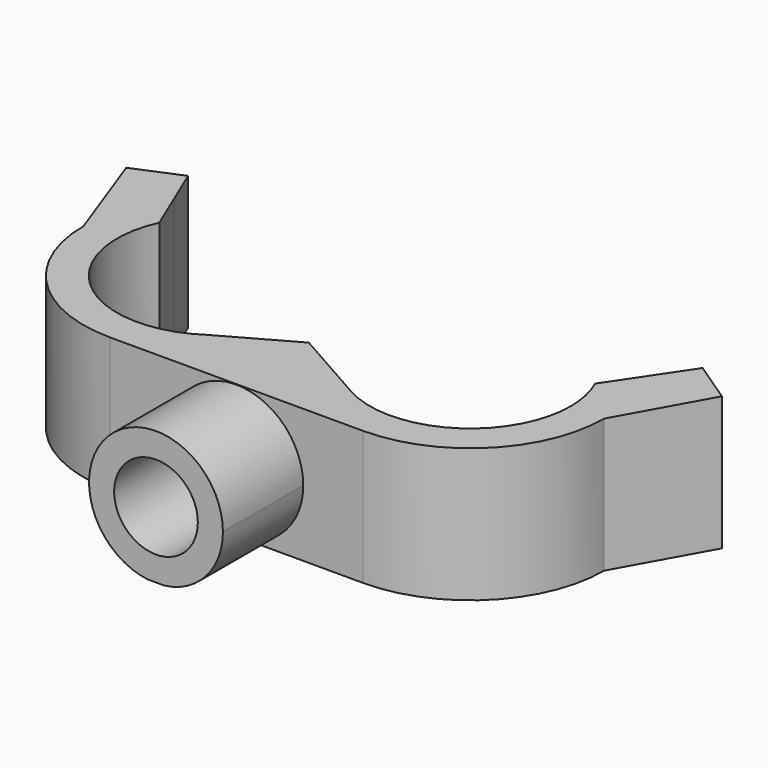
from build123d import *

# Parameters (mm, degrees)
F1_DEPTH = 8
F2_R     = 1.5
F3_DEPTH = 25
F2_R_2   = 2.5
F4_DEPTH = 6
F6_START = -2
F5_R     = 3.5
F6_DEPTH = 23


with BuildPart() as f1:
    # F0 (on Top) → F1 (new body)
    with BuildSketch(Plane.XY):
        with BuildLine():
            ThreePointArc((-6.4197371813, 4.7735704167), (-7.5946658073, 2.5141700966), (-8, 0))
            ThreePointArc((-8, 0), (-5.6568542495, -5.6568542495), (0, -8))
            ThreePointArc((0, -8), (4.6410709926, -6.5161691231), (7.5605008751, -2.6151150104))
            Line((7.5605008751, -2.6151150104), (3.3365949124, -4.9866957387))
            ThreePointArc((3.3365949124, -4.9866957387), (-3.8856695712, -4.5718237044), (-5.4593337085, 2.4891113795))
            Line((-5.4593337085, 2.4891113795), (-6.4197371813, 4.7735704167))
        make_face()
        with BuildLine():
            ThreePointArc((7.5605008751, -2.6151150104), (4.6410709926, -6.5161691231), (0, -8))
            Line((0, -8), (15.1210017502, -8))
            ThreePointArc((15.1210017502, -8), (10.4799307576, -6.5161691231), (7.5605008751, -2.6151150104))
        make_face()
        with BuildLine():
            Line((12.1655220018, -5.2216031501), (7.5605008751, -2.6151150104))
            ThreePointArc((7.5605008751, -2.6151150104), (10.4799307576, -6.5161691231), (15.1210017502, -8))
            ThreePointArc((15.1210017502, -8), (20.7778559997, -5.6568542495), (23.1210017502, 0))
            ThreePointArc((23.1210017502, 0), (22.79183999, 2.2711760607), (21.8314415756, 4.3554560439))
            Line((21.8314415756, 4.3554560439), (20.5803354587, 2.4891113795))
            ThreePointArc((20.5803354587, 2.4891113795), (20.9842773813, 1.2735771962), (21.1210017502, 0))
            ThreePointArc((21.1210017502, 0), (18.1431798977, -5.1832846001), (12.1655220018, -5.2216031501))
        make_face()
        with BuildLine():
            ThreePointArc((21.8314415756, 4.3554560439), (22.79183999, 2.2711760607), (23.1210017502, 0))
            Line((23.1210017502, 0), (26.0024620047, 5.1898341576))
            Line((26.0024620047, 5.1898341576), (23.510556668, 6.8602855317))
            Line((23.510556668, 6.8602855317), (21.8314415756, 4.3554560439))
        make_face()
        with BuildLine():
            Line((-10.1314789225, 5.8615841737), (-8, 0))
            ThreePointArc((-8, 0), (-7.5946658073, 2.5141700966), (-6.4197371813, 4.7735704167))
            Line((-6.4197371813, 4.7735704167), (-7.3659350164, 7.0242392831))
            Line((-7.3659350164, 7.0242392831), (-10.1314789225, 5.8615841737))
        make_face()
    extrude(amount=F1_DEPTH)

    # F2 (on face) → F3 (cut)
    with BuildSketch(Plane.XZ.offset(8)):
        with Locations((7.5357314199, 3.9691259153)):
            Circle(F2_R)
    extrude(amount=-F3_DEPTH, mode=Mode.SUBTRACT)

    # F2 (on face) → F4 (join)
    with BuildSketch(Plane.XZ.offset(8)):
        with BuildLine():
            ThreePointArc((8.031755077, 0), (10.5344056793, 1.3218721145), (11.5357314199, 3.9691259153))
            ThreePointArc((11.5357314199, 3.9691259153), (4.8884776191, 6.9678001747), (7.0397077629, 0))
            Line((7.0397077629, 0), (8.031755077, 0))
        make_face()
        with Locations((7.5357314199, 3.9691259153)):
            Circle(F2_R_2, mode=Mode.SUBTRACT)
    extrude(amount=F4_DEPTH)

    # F5 (on face) → F6 (cut)
    with BuildSketch(Plane.XZ.offset(8).offset(F6_START)):
        with Locations((7.5357314199, 3.9691259153)):
            Circle(F5_R)
    extrude(amount=-F6_DEPTH, mode=Mode.SUBTRACT)


solid = f1.part
